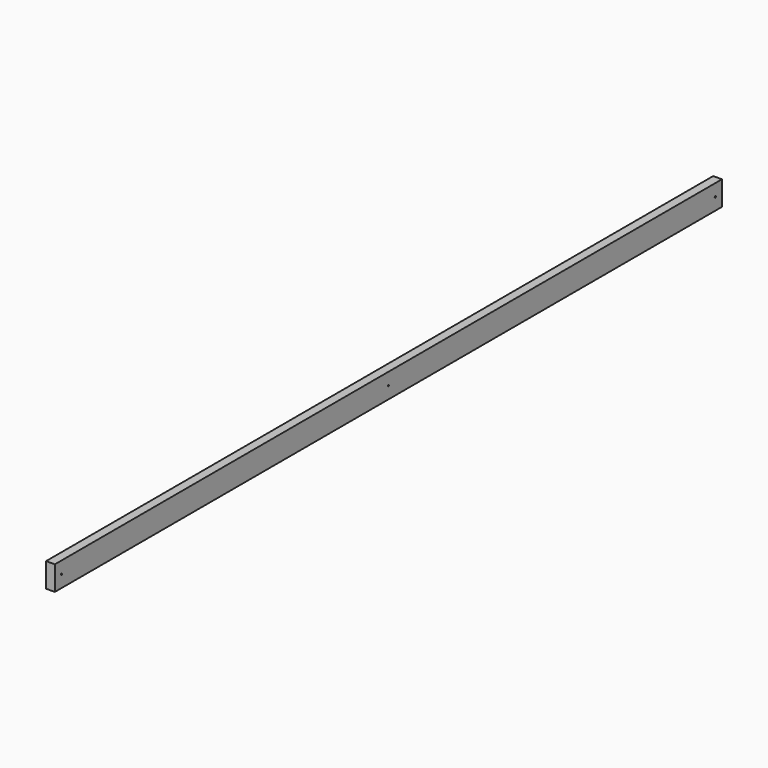
from build123d import *

# Parameters (mm, degrees)
F0_W     = 63
F0_H     = 175
F1_DEPTH = 3000
F2_R     = 5.25
F3_DEPTH = 63.001


with BuildPart() as f1:
    # F0 (on Front) → F1 (new body, symmetric)
    with BuildSketch(Plane.XZ):
        Rectangle(F0_W, F0_H)
    extrude(amount=F1_DEPTH, both=True)

    # F2 (on face) → F3 (cut, through all)
    with BuildSketch(Plane.YZ.offset(31.5)):
        with Locations((-2940, 0)):
            Circle(F2_R)
        with Locations((2940, 0)):
            Circle(F2_R)
        Circle(F2_R)
    extrude(amount=-F3_DEPTH, mode=Mode.SUBTRACT)


solid = f1.part
